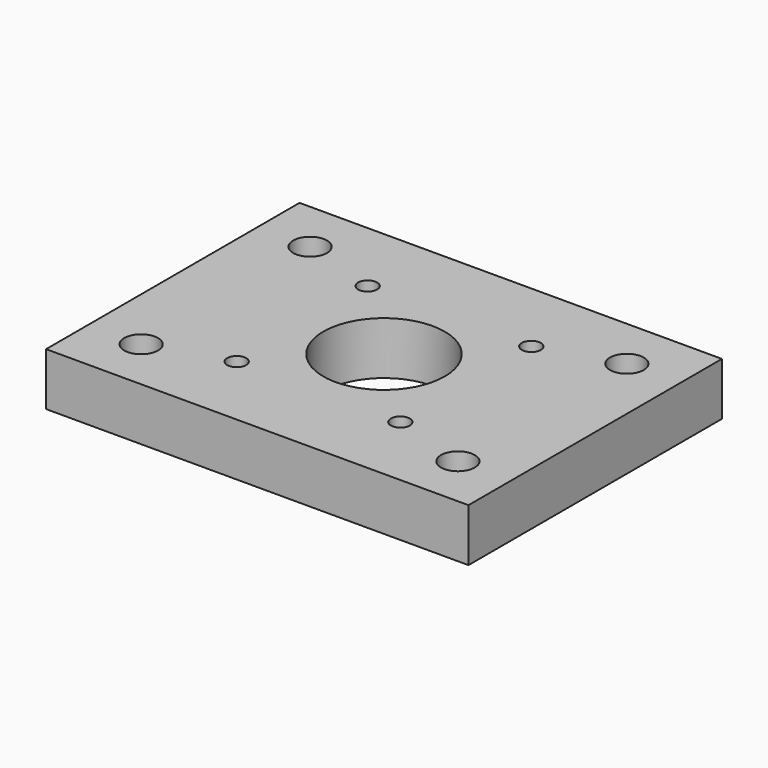
from build123d import *

# Parameters (mm, degrees)
SKETCH_W   = 80
SKETCH_H   = 60
SKETCH_R   = 11.5
SKETCH_R_2 = 1.8
SKETCH_R_3 = 3.2
PAD_DEPTH  = 10


with BuildPart() as part:
    # Sketch → Pad (new body)
    with BuildSketch(Plane.XY):
        with Locations((40, 30)):
            Rectangle(SKETCH_W, SKETCH_H)
        with Locations((40, 30)):
            Circle(SKETCH_R, mode=Mode.SUBTRACT)
        with Locations((55.5, 45.5)):
            Circle(SKETCH_R_2, mode=Mode.SUBTRACT)
        with Locations((55.5, 14.5)):
            Circle(SKETCH_R_2, mode=Mode.SUBTRACT)
        with Locations((24.5, 14.5)):
            Circle(SKETCH_R_2, mode=Mode.SUBTRACT)
        with Locations((24.5, 45.5)):
            Circle(SKETCH_R_2, mode=Mode.SUBTRACT)
        with Locations((10, 10)):
            Circle(SKETCH_R_3, mode=Mode.SUBTRACT)
        with Locations((70, 10)):
            Circle(SKETCH_R_3, mode=Mode.SUBTRACT)
        with Locations((10, 50)):
            Circle(SKETCH_R_3, mode=Mode.SUBTRACT)
        with Locations((70, 50)):
            Circle(SKETCH_R_3, mode=Mode.SUBTRACT)
    extrude(amount=PAD_DEPTH)


solid = part.part
